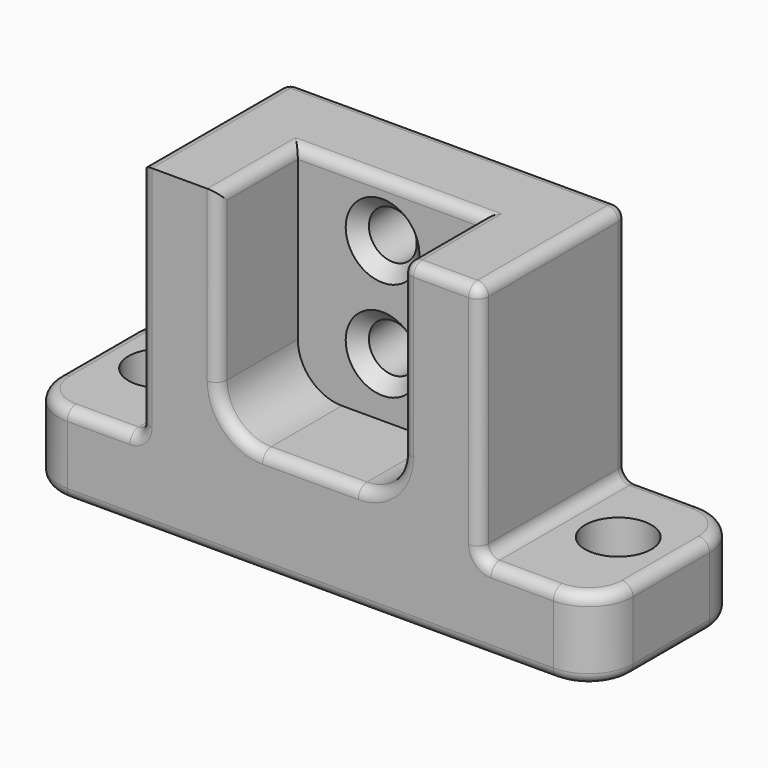
from build123d import *

# Parameters (mm, degrees)
F0_W            = 3962.4
F0_H            = 2209.8
F1_DEPTH        = 1270
F2_W            = 812.8
F2_H            = 1651
F3_DEPTH        = 1270
F4_W            = 1270
F4_H            = 1473.2
F5_DEPTH        = 685.8
F7_D            = 330.2
F7_CBORE_D      = 457.2
F7_CBORE_DEPTH  = 254
F9_D            = 330.2
F9_CBORE_D      = 457.2
F9_CBORE_DEPTH  = 254
F11_D           = 330.2
F11_CSINK_D     = 508
F11_CSINK_ANGLE = 90
F12_R           = 304.8
F13_R           = 76.2


with BuildPart() as f1:
    # F0 (on Front) → F1 (new body)
    with BuildSketch(Plane.XZ):
        with Locations((-15.5695136636, -46.555774383)):
            Rectangle(F0_W, F0_H)
    extrude(amount=F1_DEPTH)

    # F2 (on face) → F3 (cut)
    with BuildSketch(Plane.XZ.offset(1270)):
        with Locations((-1590.3695136636, 232.844225617)):
            Rectangle(F2_W, F2_H)
        with Locations((1559.2304863364, 232.844225617)):
            Rectangle(F2_W, F2_H)
    extrude(amount=-F3_DEPTH, mode=Mode.SUBTRACT)

    # F4 (on face) → F5 (cut)
    with BuildSketch(Plane.XZ.offset(1270)):
        with Locations((-15.5695136636, 321.744225617)):
            Rectangle(F4_W, F4_H)
    extrude(amount=-F5_DEPTH, mode=Mode.SUBTRACT)

    # F7 (through all)
    with Locations(Plane.XY.offset(-592.655774383)):
        with Locations((1559.2304863364, -584.2)):
            CounterBoreHole(F7_D / 2, F7_CBORE_D / 2, F7_CBORE_DEPTH)

    # F9 (through all)
    with Locations(Plane.XY.offset(-592.655774383)):
        with Locations((-1590.3695136636, -584.2)):
            CounterBoreHole(F9_D / 2, F9_CBORE_D / 2, F9_CBORE_DEPTH)

    # F11 (through all)
    with Locations(Plane.XZ.offset(584.2)):
        with Locations((-66.3695136636, 677.344225617), (-66.3695136636, -8.455774383)):
            CounterSinkHole(F11_D / 2, F11_CSINK_D / 2, counter_sink_angle=F11_CSINK_ANGLE)

    # F12
    f12_edges = [f1.edges().sort_by_distance(p)[0] for p in [
        (-1996.769514, -1270, -872.055774),
        (1965.630486, -1270, -872.055774),
        (1965.630486, 0, -872.055774),
        (-650.569514, -927.1, -414.855774),
        (619.430486, -927.1, -414.855774),
        (-1996.769514, 0, -872.055774),
    ]]
    fillet(f12_edges, radius=F12_R)

    # F13
    f13_edges = [f1.edges().sort_by_distance(p)[0] for p in [
        (-1183.969514, -635, 1058.344226),
        (-15.569514, 0, 1058.344226),
        (-15.569514, -584.2, 1058.344226),
        (619.430486, -927.1, 1058.344226),
        (-650.569514, -927.1, 1058.344226),
        (886.130486, -1270, 1058.344226),
        (1152.830486, -635, 1058.344226),
        (-1996.769514, -635, -592.655774),
        (-1907.495661, -89.273853, -592.655774),
        (-1437.969514, 0, -592.655774),
        (-1907.495661, -1180.726147, -592.655774),
        (-1437.969514, -1270, -592.655774),
        (-1183.969514, -635, -592.655774),
        (-15.569514, -1270, -1151.455774),
        (-1907.495661, -1180.726147, -1151.455774),
        (-1996.769514, -635, -1151.455774),
        (-1907.495661, -89.273853, -1151.455774),
        (619.430486, -1270, 474.144226),
        (530.156633, -1270, -325.581921),
        (-15.569514, -1270, -414.855774),
        (-561.295661, -1270, -325.581921),
        (-650.569514, -1270, 474.144226),
        (1152.830486, -1270, 232.844226),
        (-1183.969514, -1270, 232.844226),
        (-1183.969514, 0, 232.844226),
        (1406.830486, -1270, -592.655774),
        (1876.356633, -1180.726147, -592.655774),
        (1965.630486, -635, -592.655774),
        (1152.830486, -635, -592.655774),
        (1152.830486, 0, 232.844226),
        (1406.830486, 0, -592.655774),
        (1876.356633, -89.273853, -592.655774),
        (1965.630486, -635, -1151.455774),
        (1876.356633, -1180.726147, -1151.455774),
        (1876.356633, -89.273853, -1151.455774),
        (-15.569514, 0, -1151.455774),
    ]]
    fillet(f13_edges, radius=F13_R)


solid = f1.part
